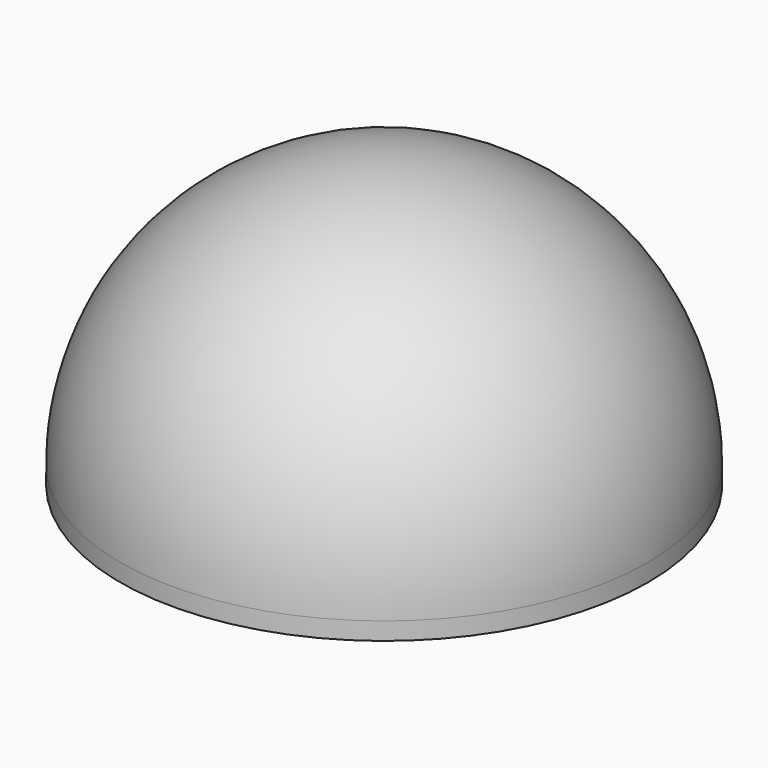
from build123d import *

# Parameters (mm, degrees)
F1_ANGLE = 180
F2_R     = 22
F3_DEPTH = 1.5


with BuildPart() as f1:
    # F0 (on Top) → F1 (revolve)
    with BuildSketch(Plane.XY):
        with BuildLine():
            Line((-22.5, 0), (22.5, 0))
            ThreePointArc((22.5, 0), (0, 22.5), (-22.5, 0))
        make_face()
    revolve(axis=Axis((0, 0, 0), (1, 0, 0)), revolution_arc=F1_ANGLE)

    # F2 (on face) → F3 (join)
    with BuildSketch(Plane(origin=(0, 0, 0), x_dir=(1, 0, 0), z_dir=(0, 0, -1))):
        with BuildLine():
            ThreePointArc((-22.5, 0), (0, -22.5), (22.5, 0))
            ThreePointArc((22.5, 0), (0, 22.5), (-22.5, 0))
        make_face()
        Circle(F2_R, mode=Mode.SUBTRACT)
    extrude(amount=F3_DEPTH)


solid = f1.part
